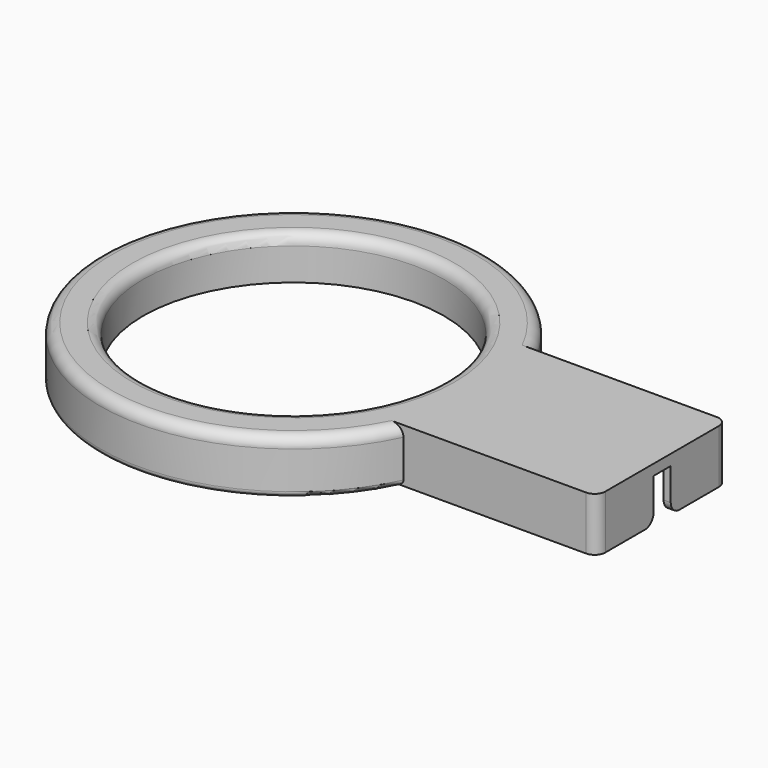
from build123d import *

# Parameters (mm, degrees)
PAD_DEPTH       = 5
POCKET_DEPTH    = 4
SKETCH005_R     = 15
PAD001_DEPTH    = 4
FILLET_R        = 1
FILLET001_R     = 0.5
SKETCH006_R     = 14
POCKET001_DEPTH = 5.001
FILLET002_R     = 1
FILLET003_R     = 1
FILLET004_R     = 1
FILLET005_R     = 1
FILLET006_R     = 1
FILLET007_R     = 1
FILLET008_R     = 1


with BuildPart() as part:
    # Sketch001 → Pad (new body)
    with BuildSketch(Plane.XY):
        with BuildLine():
            Line((29.31354, 7.607129), (11.31354, 7.607129))
            ThreePointArc((11.31354, 7.607129), (-23, 0), (11.31354, -7.607129))
            Line((11.31354, -7.607129), (29.31354, -7.607129))
            Line((29.31354, 7.607129), (29.31354, -7.607129))
        make_face()
    extrude(amount=PAD_DEPTH)

    # Sketch004 → Pocket (cut)
    with BuildSketch(Plane.XY):
        with BuildLine():
            Line((28.648583, 6.642429), (10.648583, 6.642429))
            ThreePointArc((10.648583, 6.642429), (-22, 0), (10.648583, -6.642429))
            Line((10.648583, -6.642429), (28.648583, -6.642429))
            Line((28.648583, -1), (28.648583, -6.642429))
            Line((32.648583, -1), (28.648583, -1))
            Line((32.648583, 1), (32.648583, -1))
            Line((28.648583, 1), (32.648583, 1))
            Line((28.648583, 6.642429), (28.648583, 1))
        make_face()
    extrude(amount=POCKET_DEPTH, mode=Mode.SUBTRACT)

    # Sketch005 → Pad001 (join)
    with BuildSketch(Plane.XY.offset(1)):
        with Locations((-5, 0)):
            Circle(SKETCH005_R)
    extrude(amount=PAD001_DEPTH)

    # Fillet
    fillet_edges = [part.edges().sort_by_distance(p)[0] for p in [
        (-23, 0, 5),
    ]]
    fillet(fillet_edges, radius=FILLET_R)

    # Fillet001
    fillet001_edges = [part.edges().sort_by_distance(p)[0] for p in [
        (-23, 0, 0),
    ]]
    fillet(fillet001_edges, radius=FILLET001_R)

    # Sketch006 → Pocket001 (cut, through all)
    with BuildSketch(Plane.XY):
        with Locations((-5, 0)):
            Circle(SKETCH006_R)
    extrude(amount=POCKET001_DEPTH, mode=Mode.SUBTRACT)

    # Fillet002
    fillet002_edges = [part.edges().sort_by_distance(p)[0] for p in [
        (-19, 0, 5),
    ]]
    fillet(fillet002_edges, radius=FILLET002_R)

    # Fillet003
    fillet003_edges = [part.edges().sort_by_distance(p)[0] for p in [
        (28.981061, 1, 0),
    ]]
    fillet(fillet003_edges, radius=FILLET003_R)

    # Fillet004
    fillet004_edges = [part.edges().sort_by_distance(p)[0] for p in [
        (28.981061, -1, 0),
    ]]
    fillet(fillet004_edges, radius=FILLET004_R)

    # Fillet005
    fillet005_edges = [part.edges().sort_by_distance(p)[0] for p in [
        (29.31354, 7.607129, 2.5),
    ]]
    fillet(fillet005_edges, radius=FILLET005_R)

    # Fillet006
    fillet006_edges = [part.edges().sort_by_distance(p)[0] for p in [
        (29.31354, -7.607129, 2.5),
    ]]
    fillet(fillet006_edges, radius=FILLET006_R)

    # Fillet007
    fillet007_edges = [part.edges().sort_by_distance(p)[0] for p in [
        (10.648583, 6.642429, 2),
    ]]
    fillet(fillet007_edges, radius=FILLET007_R)

    # Fillet008
    fillet008_edges = [part.edges().sort_by_distance(p)[0] for p in [
        (10.648583, -6.642429, 2),
    ]]
    fillet(fillet008_edges, radius=FILLET008_R)


solid = part.part
